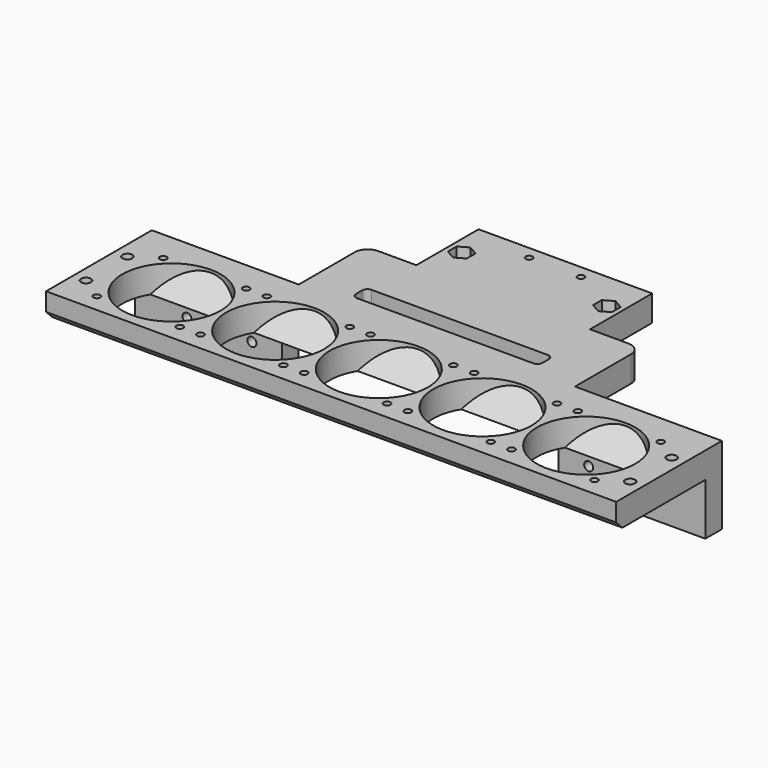
from build123d import *

# Parameters (mm, degrees)
SKETCH_W        = 220
SKETCH_H        = 40
PAD_DEPTH       = 10
SKETCH001_R     = 19
POCKET_DEPTH    = 10
PAD001_DEPTH    = 220
PAD002_DEPTH    = 220
SKETCH004_R     = 1.325
POCKET001_DEPTH = 10
SKETCH005_R     = 1.9
POCKET002_DEPTH = 10
SKETCH006_W     = 106.6
SKETCH006_H     = 10
PAD003_DEPTH    = 70
SKETCH007_W     = 19.8
SKETCH007_H     = 10
POCKET003_DEPTH = 30
SKETCH008_W     = 56.7
SKETCH008_H     = 10
PAD004_DEPTH    = 8
SKETCH009_W     = 56.7
SKETCH009_H     = 8
PAD005_DEPTH    = 20
SKETCH010_R     = 2.375
POCKET004_DEPTH = 10
POCKET005_DEPTH = 4
FILLET_R        = 5
SKETCH012_R     = 1.75
POCKET006_DEPTH = 8
SKETCH013_R     = 2.875
POCKET007_DEPTH = 4
SKETCH014_R     = 1.325
POCKET008_DEPTH = 10
SKETCH015_W     = 72
SKETCH015_H     = 7
POCKET009_DEPTH = 10
FILLET001_R     = 2
SKETCH016_W     = 220
SKETCH016_H     = 10
PAD006_DEPTH    = 3
CHAMFER_SIZE    = 2.99


with BuildPart() as part:
    # Sketch → Pad (new body)
    with BuildSketch(Plane.XY):
        Rectangle(SKETCH_W, SKETCH_H)
    extrude(amount=PAD_DEPTH)

    # Sketch001 (on Face6 of Pad) → Pocket (cut)
    with BuildSketch(Plane.XY.offset(10)):
        with Locations((-80, 0)):
            Circle(SKETCH001_R)
        with Locations((-40, 0)):
            Circle(SKETCH001_R)
        Circle(SKETCH001_R)
        with Locations((40, 0)):
            Circle(SKETCH001_R)
        with Locations((80, 0)):
            Circle(SKETCH001_R)
    extrude(amount=-POCKET_DEPTH, mode=Mode.SUBTRACT)

    # Sketch002 (on Face3 of Pocket) → Pad001 (join)
    with BuildSketch(Plane.YZ.offset(110)):
        Polygon((-10, 0), (-20, 0), (-20, 10), align=None)
    extrude(amount=-PAD001_DEPTH)

    # Sketch003 (on Face3 of Pad001) → Pad002 (join)
    with BuildSketch(Plane.YZ.offset(110)):
        Polygon((20, 10), (10, 0), (20, 0), align=None)
    extrude(amount=-PAD002_DEPTH)

    # Sketch004 (on Face5 of Pad002) → Pocket001 (cut)
    with BuildSketch(Plane.XY.offset(10)):
        with Locations((-96, 16)):
            Circle(SKETCH004_R)
        with Locations((-96, -16)):
            Circle(SKETCH004_R)
        with Locations((-64, -16)):
            Circle(SKETCH004_R)
        with Locations((-64, 16)):
            Circle(SKETCH004_R)
        with Locations((-56, 16)):
            Circle(SKETCH004_R)
        with Locations((-56, -16)):
            Circle(SKETCH004_R)
        with Locations((-24, -16)):
            Circle(SKETCH004_R)
        with Locations((-24, 16)):
            Circle(SKETCH004_R)
        with Locations((-16, 16)):
            Circle(SKETCH004_R)
        with Locations((-16, -16)):
            Circle(SKETCH004_R)
        with Locations((16, -16)):
            Circle(SKETCH004_R)
        with Locations((16, 16)):
            Circle(SKETCH004_R)
        with Locations((24, 16)):
            Circle(SKETCH004_R)
        with Locations((24, -16)):
            Circle(SKETCH004_R)
        with Locations((56, -16)):
            Circle(SKETCH004_R)
        with Locations((56, 16)):
            Circle(SKETCH004_R)
        with Locations((64, 16)):
            Circle(SKETCH004_R)
        with Locations((64, -16)):
            Circle(SKETCH004_R)
        with Locations((96, -16)):
            Circle(SKETCH004_R)
        with Locations((96, 16)):
            Circle(SKETCH004_R)
    extrude(amount=-POCKET001_DEPTH, mode=Mode.SUBTRACT)

    # Sketch005 (on Face5 of Pocket001) → Pocket002 (cut)
    with BuildSketch(Plane.XY.offset(10)):
        with Locations((-105, 10)):
            Circle(SKETCH005_R)
        with Locations((-105, -10)):
            Circle(SKETCH005_R)
        with Locations((105, 10)):
            Circle(SKETCH005_R)
        with Locations((105, -10)):
            Circle(SKETCH005_R)
    extrude(amount=-POCKET002_DEPTH, mode=Mode.SUBTRACT)

    # Sketch006 (on Face1 of Pocket002) → Pad003 (join)
    with BuildSketch(Plane(origin=(0, 20, 0), x_dir=(-1, 0, 0), z_dir=(0, 1, 0))):
        with Locations((0, 5)):
            Rectangle(SKETCH006_W, SKETCH006_H)
    extrude(amount=PAD003_DEPTH)

    # Sketch007 → Pocket003 (cut)
    with BuildSketch(Plane(origin=(0, 90, 0), x_dir=(-1, 0, 0), z_dir=(0, 1, 0))):
        with Locations((-43.4, 5)):
            Rectangle(SKETCH007_W, SKETCH007_H)
        with Locations((43.4, 5)):
            Rectangle(SKETCH007_W, SKETCH007_H)
    extrude(amount=-POCKET003_DEPTH, mode=Mode.SUBTRACT)

    # Sketch008 (on Face1 of Pocket003) → Pad004 (join)
    with BuildSketch(Plane(origin=(0, 20, 0), x_dir=(-1, 0, 0), z_dir=(0, 1, 0))):
        with Locations((-81.65, 5)):
            Rectangle(SKETCH008_W, SKETCH008_H)
        with Locations((81.65, 5)):
            Rectangle(SKETCH008_W, SKETCH008_H)
    extrude(amount=PAD004_DEPTH)

    # Sketch009 (on Face14 of Pad004) → Pad005 (join)
    with BuildSketch(Plane(origin=(0, 0, 0), x_dir=(1, 0, 0), z_dir=(0, 0, -1))):
        with Locations((-81.65, -24)):
            Rectangle(SKETCH009_W, SKETCH009_H)
        with Locations((81.65, -24)):
            Rectangle(SKETCH009_W, SKETCH009_H)
    extrude(amount=PAD005_DEPTH)

    # Sketch010 (on Face15 of Pad005) → Pocket004 (cut)
    with BuildSketch(Plane(origin=(0, 0, 0), x_dir=(1, 0, 0), z_dir=(0, 0, -1))):
        with Locations((-28, -75)):
            Circle(SKETCH010_R)
        with Locations((28, -75)):
            Circle(SKETCH010_R)
    extrude(amount=-POCKET004_DEPTH, mode=Mode.SUBTRACT)

    # Sketch011 (on Face87 of Pocket004) → Pocket005 (cut)
    with BuildSketch(Plane.XY.offset(10)):
        Polygon((-24.35, 72.892672), (-24.35, 77.107328), (-28, 79.214657), (-31.65, 77.107328), (-31.65, 72.892672), (-28, 70.785343), align=None)
        Polygon((31.65, 77.107328), (28, 79.214657), (24.35, 77.107328), (24.35, 72.892672), (28, 70.785343), (31.65, 72.892672), align=None)
    extrude(amount=-POCKET005_DEPTH, mode=Mode.SUBTRACT)

    # Fillet
    fillet_edges = [part.edges().sort_by_distance(p)[0] for p in [
        (53.3, 60, 5),
        (-53.3, 60, 5),
    ]]
    fillet(fillet_edges, radius=FILLET_R)

    # Sketch012 (on Face19 of Fillet) → Pocket006 (cut)
    with BuildSketch(Plane(origin=(0, 28, 0), x_dir=(-1, 0, 0), z_dir=(0, 1, 0))):
        with Locations((-90, -10)):
            Circle(SKETCH012_R)
        with Locations((-65, -10)):
            Circle(SKETCH012_R)
        with Locations((65, -10)):
            Circle(SKETCH012_R)
        with Locations((90, -10)):
            Circle(SKETCH012_R)
    extrude(amount=-POCKET006_DEPTH, mode=Mode.SUBTRACT)

    # Sketch013 (on Face19 of Pocket006) → Pocket007 (cut)
    with BuildSketch(Plane(origin=(0, 28, 0), x_dir=(-1, 0, 0), z_dir=(0, 1, 0))):
        with Locations((-90, -10)):
            Circle(SKETCH013_R)
        with Locations((-65, -10)):
            Circle(SKETCH013_R)
        with Locations((65, -10)):
            Circle(SKETCH013_R)
        with Locations((90, -10)):
            Circle(SKETCH013_R)
    extrude(amount=-POCKET007_DEPTH, mode=Mode.SUBTRACT)

    # Sketch014 (on Face17 of Pocket007) → Pocket008 (cut)
    with BuildSketch(Plane.XY.offset(10)):
        with Locations((-10, 85)):
            Circle(SKETCH014_R)
        with Locations((10, 85)):
            Circle(SKETCH014_R)
    extrude(amount=-POCKET008_DEPTH, mode=Mode.SUBTRACT)

    # Sketch015 (on Face19 of Pocket008) → Pocket009 (cut)
    with BuildSketch(Plane.XY.offset(10)):
        with Locations((0, 35.5)):
            Rectangle(SKETCH015_W, SKETCH015_H)
    extrude(amount=-POCKET009_DEPTH, mode=Mode.SUBTRACT)

    # Fillet001
    fillet001_edges = [part.edges().sort_by_distance(p)[0] for p in [
        (36, 39, 5),
        (-36, 39, 5),
        (-36, 32, 5),
        (36, 32, 5),
    ]]
    fillet(fillet001_edges, radius=FILLET001_R)

    # Sketch016 (on Face104 of Fillet001) → Pad006 (join)
    with BuildSketch(Plane.XZ.offset(20)):
        with Locations((0, 5)):
            Rectangle(SKETCH016_W, SKETCH016_H)
    extrude(amount=PAD006_DEPTH)

    # Chamfer
    chamfer_edges = [part.edges().sort_by_distance(p)[0] for p in [
        (0, -23, 0),
    ]]
    chamfer(chamfer_edges, length=CHAMFER_SIZE)


solid = part.part
